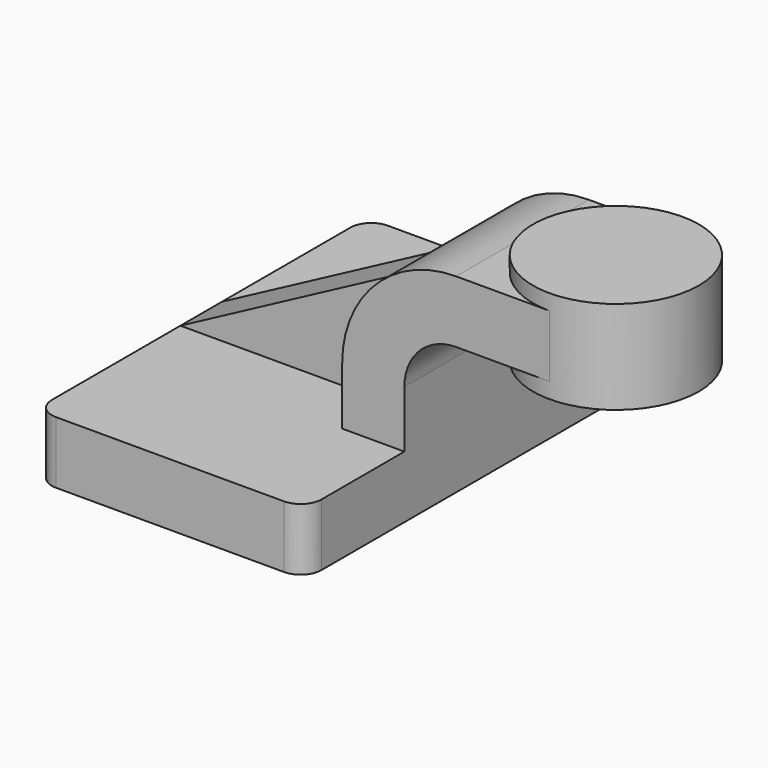
from build123d import *

# Parameters (mm, degrees)
F1_DEPTH = 63.5
F2_DEPTH = 25.4
F3_DEPTH = 7.9375
F5_R     = 6.35


with BuildPart() as f1:
    # F0 (on Front) → F1 (new body, symmetric)
    with BuildSketch(Plane.XZ):
        Polygon((22.225, 9.525), (-41.275, 9.525), (-41.275, -9.525), (41.275, -9.525), (41.275, 9.525), align=None)
    extrude(amount=F1_DEPTH, both=True)

    # F0 (on Front) → F2 (join, symmetric)
    with BuildSketch(Plane.XZ):
        Polygon((85.725, 61.9252), (60.325, 61.9252), (60.325, 42.8752), (80.5717907127, 42.8752), (85.725, 42.8752), align=None)
        with BuildLine():
            Line((22.225, 27.0002), (22.225, 9.525))
            Line((22.225, 9.525), (41.275, 9.525))
            Line((41.275, 9.525), (41.275, 27.0002))
            ThreePointArc((41.275, 27.0002), (45.9246798487, 38.2255201513), (57.15, 42.8752))
            Line((57.15, 42.8752), (60.325, 42.8752))
            Line((60.325, 42.8752), (60.325, 61.9252))
            Line((60.325, 61.9252), (57.15, 61.9252))
            add(Edge.make_bspline(
                [(28.1752493255, 46.4994166087), (37.8334995503, 51.6413444058), (47.4917497752, 56.7832722029), (57.15, 61.9252)],
                knots=[78.6793785876, 78.6793785876, 78.6793785876, 78.6793785876, 111.5045361635, 111.5045361635, 111.5045361635, 111.5045361635], degree=3))
            ThreePointArc((28.1752493255, 46.4994166087), (23.7456680032, 37.1936404813), (22.225, 27.0002))
        make_face()
        with BuildLine():
            ThreePointArc((57.15, 61.9252), (40.737421212, 57.8284805639), (28.1752493255, 46.4994166087))
            add(Edge.make_bspline(
                [(28.1752493255, 46.4994166087), (37.8334995503, 51.6413444058), (47.4917497752, 56.7832722029), (57.15, 61.9252)],
                knots=[78.6793785876, 78.6793785876, 78.6793785876, 78.6793785876, 111.5045361635, 111.5045361635, 111.5045361635, 111.5045361635], degree=3))
        make_face()
    extrude(amount=F2_DEPTH, both=True)

    # F0 (on Front) → F3 (join, symmetric)
    with BuildSketch(Plane.XZ):
        with BuildLine():
            add(Edge.make_bspline(
                [(-41.275, 9.525), (-18.1249168915, 21.8498055362), (5.025166217, 34.1746110724), (28.1752493255, 46.4994166087)],
                knots=[0, 0, 0, 0, 78.6793785876, 78.6793785876, 78.6793785876, 78.6793785876], degree=3))
            Line((-41.275, 9.525), (22.225, 9.525))
            Line((22.225, 9.525), (22.225, 27.0002))
            ThreePointArc((22.225, 27.0002), (23.7456680032, 37.1936404813), (28.1752493255, 46.4994166087))
        make_face()
    extrude(amount=F3_DEPTH, both=True)

    # F0 (on Front) → F4 (revolve)
    with BuildSketch(Plane.XZ):
        Polygon((85.725, 66.675), (85.725, 61.9252), (85.725, 42.8752), (85.725, 38.1), (111.125, 38.1), (111.125, 66.675), align=None)
    revolve(axis=Axis((85.725, 0, 52.3875), (0, 0, -1)))

    # F5
    f5_edges = [f1.edges().sort_by_distance(p)[0] for p in [
        (-41.275, -63.5, 0),
        (41.275, -63.5, 0),
        (41.275, 63.5, 0),
        (-41.275, 63.5, 0),
    ]]
    fillet(f5_edges, radius=F5_R)


solid = f1.part
